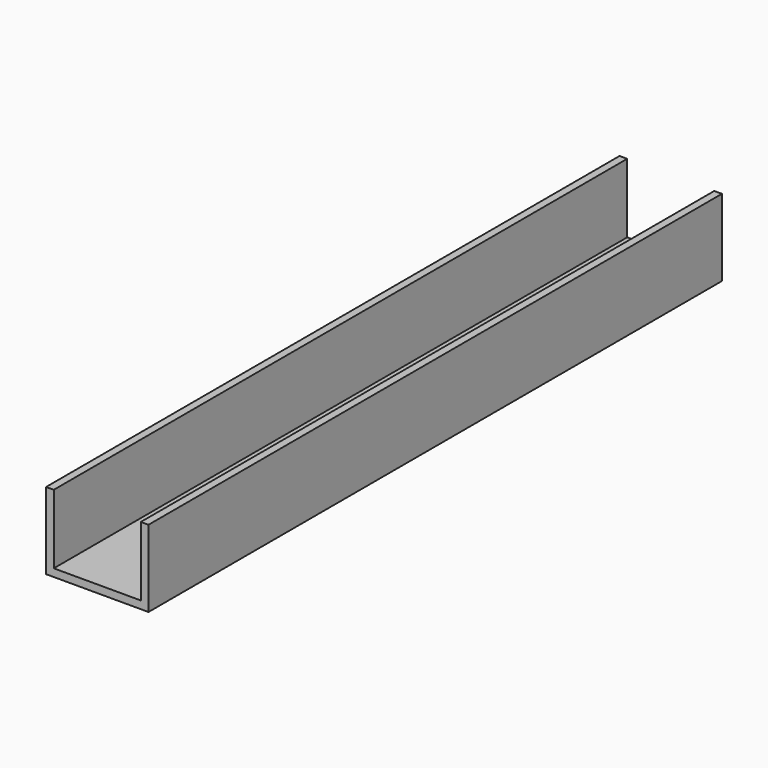
from build123d import *

# Parameters (mm, degrees)
F0_W     = 3.81
F0_H     = 3.81
F0_H_2   = 34.29
F0_W_2   = 43.18
F1_DEPTH = 355.6


with BuildPart() as f1:
    # F0 (on Front) → F1 (new body)
    with BuildSketch(Plane.XZ):
        with Locations((-54.347936, -4.844955)):
            Rectangle(F0_W, F0_H)
        with Locations((-7.357936, -4.844955)):
            Rectangle(F0_W, F0_H)
        with Locations((-54.347936, 14.205045)):
            Rectangle(F0_W, F0_H_2)
        with Locations((-7.357936, 14.205045)):
            Rectangle(F0_W, F0_H_2)
        with Locations((-30.852936, -4.844955)):
            Rectangle(F0_W_2, F0_H)
    extrude(amount=F1_DEPTH)


solid = f1.part
